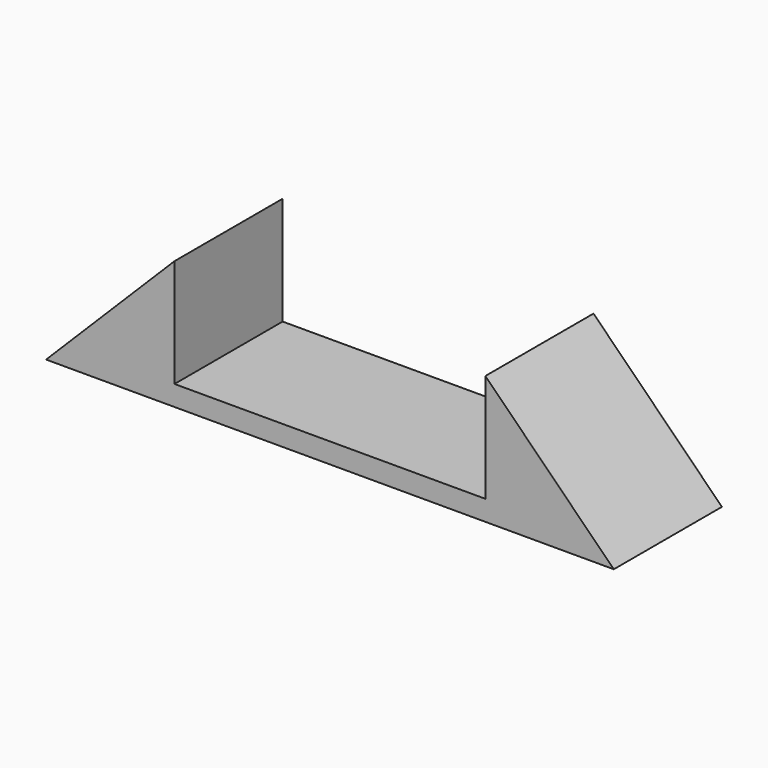
from build123d import *

# Parameters (mm, degrees)
PAD_DEPTH = 10


with BuildPart() as part:
    # Sketch → Pad (new body, symmetric)
    with BuildSketch(Plane.XZ):
        Polygon((-42, 0), (42, 0), (23, 19), (23, 3), (-23, 3), (-23, 19), align=None)
    extrude(amount=PAD_DEPTH, both=True)


solid = part.part
